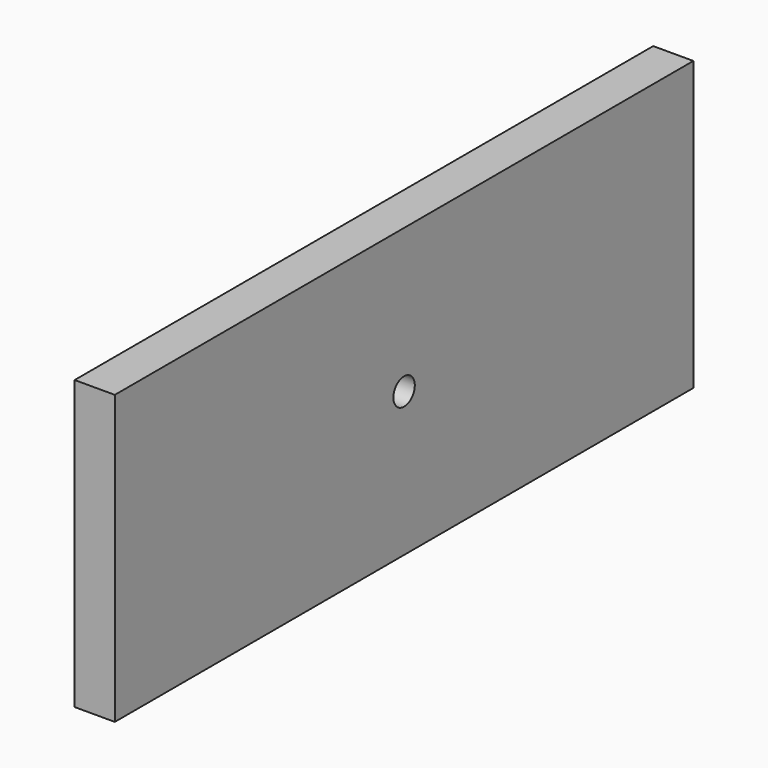
from build123d import *

# Parameters (mm, degrees)
F0_W     = 108
F0_H     = 43
F1_DEPTH = 6
F3_D     = 4


with BuildPart() as f1:
    # F0 (on Right) → F1 (new body)
    with BuildSketch(Plane.YZ):
        with Locations((54, 21.5)):
            Rectangle(F0_W, F0_H)
    extrude(amount=F1_DEPTH)

    # F3 (through all)
    with Locations(Plane.YZ.offset(6)):
        with Locations((54, 21.5)):
            Hole(F3_D / 2)


solid = f1.part
